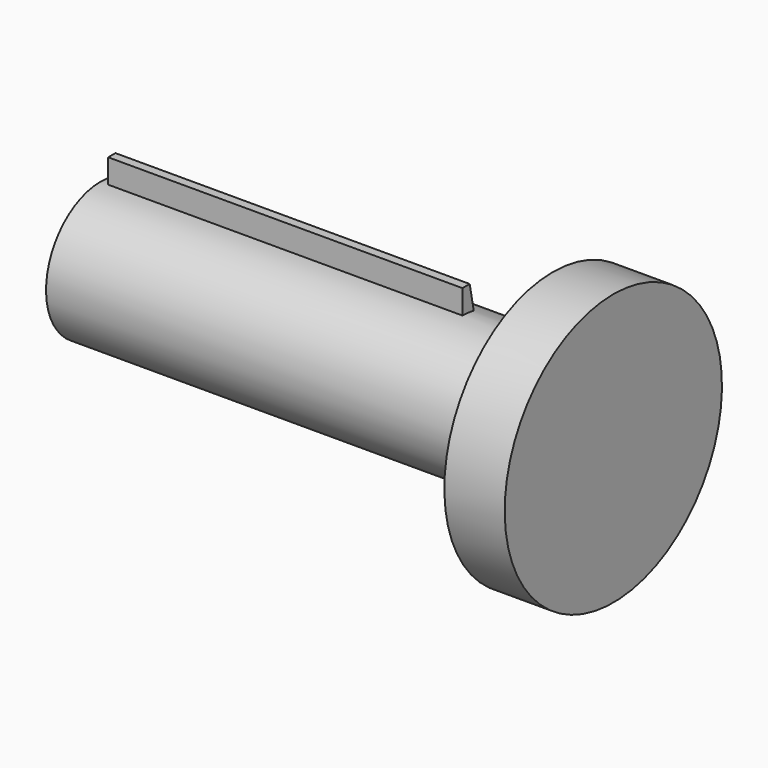
from build123d import *

# Parameters (mm, degrees)
F4_DEPTH = 117.4


with BuildPart() as f1:
    # F0 (on Front) → F1 (revolve)
    with BuildSketch(Plane.XZ):
        Polygon((-150, 22.5), (-150, 0), (20, 0), (20, 45), (0, 45), (0, 22.5), align=None)
    revolve(axis=Axis((-0.347704, 0, 0), (1, 0, 0)))

    # F3 (on offset) → F4 (join)
    with BuildSketch(Plane.YZ.offset(-30)):
        Polygon((3, 30.5), (0, 30.5), (0, 22.5), (4.673017, 22.009382), align=None)
    extrude(amount=-F4_DEPTH)


solid = f1.part
